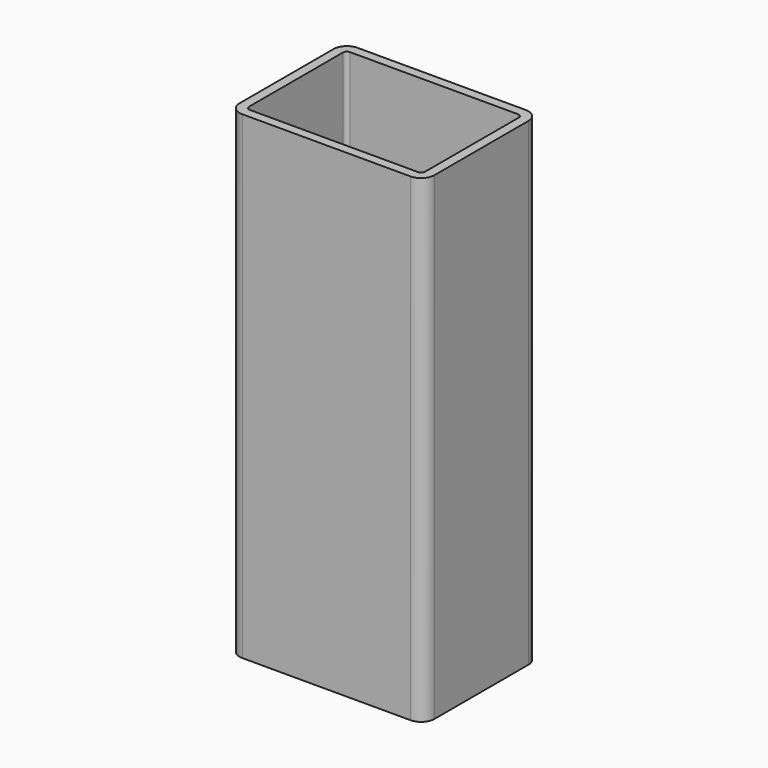
from build123d import *

# Parameters (mm, degrees)
F1_DEPTH      = 60
F1_DEPTH_BACK = 1.2
F0_W          = 15
F0_H          = 7
F2_DEPTH      = 1.2


with BuildPart() as f1:
    # F0 (on Top) → F1 (new body, two sides)
    with BuildSketch(Plane.XY) as f1_sk:
        with BuildLine():
            Line((-12.45, 7.5), (-12.45, -7.5))
            ThreePointArc((-12.45, -7.5), (-11.952082, -8.702082), (-10.75, -9.2))
            Line((-10.75, -9.2), (10.75, -9.2))
            ThreePointArc((10.75, -9.2), (11.952082, -8.702082), (12.45, -7.5))
            Line((12.45, -7.5), (12.45, 7.5))
            ThreePointArc((12.45, 7.5), (11.952082, 8.702082), (10.75, 9.2))
            Line((10.75, 9.2), (-10.75, 9.2))
            ThreePointArc((-10.75, 9.2), (-11.952082, 8.702082), (-12.45, 7.5))
        make_face()
        with BuildLine():
            ThreePointArc((11.25, -7.5), (11.103553, -7.853553), (10.75, -8))
            Line((10.75, -8), (-10.75, -8))
            ThreePointArc((-10.75, -8), (-11.103553, -7.853553), (-11.25, -7.5))
            Line((-11.25, -7.5), (-11.25, 7.5))
            ThreePointArc((-11.25, 7.5), (-11.103553, 7.853553), (-10.75, 8))
            Line((-10.75, 8), (10.75, 8))
            ThreePointArc((10.75, 8), (11.103553, 7.853553), (11.25, 7.5))
            Line((11.25, 7.5), (11.25, -7.5))
        make_face(mode=Mode.SUBTRACT)
    extrude(amount=F1_DEPTH)
    extrude(f1_sk.sketch, amount=-F1_DEPTH_BACK)

    # F0 (on Top) → F2 (join)
    with BuildSketch(Plane.XY):
        with BuildLine():
            Line((-10.75, -8), (10.75, -8))
            ThreePointArc((10.75, -8), (11.103553, -7.853553), (11.25, -7.5))
            Line((11.25, -7.5), (11.25, 7.5))
            ThreePointArc((11.25, 7.5), (11.103553, 7.853553), (10.75, 8))
            Line((10.75, 8), (-10.75, 8))
            ThreePointArc((-10.75, 8), (-11.103553, 7.853553), (-11.25, 7.5))
            Line((-11.25, 7.5), (-11.25, -7.5))
            ThreePointArc((-11.25, -7.5), (-11.103553, -7.853553), (-10.75, -8))
        make_face()
        with Locations((0, -1.5)):
            Rectangle(F0_W, F0_H, mode=Mode.SUBTRACT)
    extrude(amount=-F2_DEPTH)


solid = f1.part
